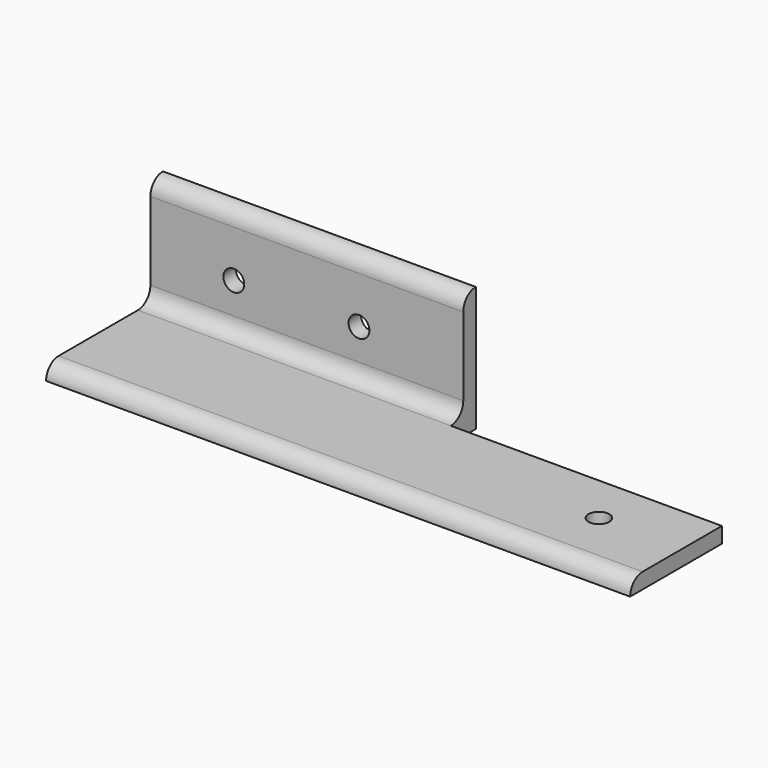
from build123d import *

# Parameters (mm, degrees)
F1_DEPTH = 177.8
F2_R     = 6.35
F3_DEPTH = 25.4
F4_W     = 165.1
F4_H     = 19.05
F5_DEPTH = 76.201
F6_R     = 6.35
F7_DEPTH = 25.4


with BuildPart() as f1:
    # F0 (on Right) → F1 (new body, symmetric)
    with BuildSketch(Plane.YZ):
        with BuildLine():
            Line((0, 0), (0, 76.2))
            ThreePointArc((0, 76.2), (-6.7351920908, 73.4101920908), (-9.525, 66.675))
            Line((-9.525, 66.675), (-9.525, 19.05))
            ThreePointArc((-9.525, 19.05), (-12.3148079092, 12.3148079092), (-19.05, 9.525))
            Line((-19.05, 9.525), (-79.375, 9.525))
            ThreePointArc((-79.375, 9.525), (-86.1101920908, 6.7351920908), (-88.9, 0))
            Line((-88.9, 0), (0, 0))
        make_face()
    extrude(amount=F1_DEPTH, both=True)

    # F2 (on face) → F3 (cut)
    with BuildSketch(Plane(origin=(0, 0, 0), x_dir=(-1, 0, 0), z_dir=(0, 1, 0))):
        with Locations((127, 38.1)):
            Circle(F2_R)
        with Locations((50.8, 38.1)):
            Circle(F2_R)
    extrude(amount=-F3_DEPTH, mode=Mode.SUBTRACT)

    # F4 (on face) → F5 (cut, through all)
    with BuildSketch(Plane(origin=(0, 0, 0), x_dir=(1, 0, 0), z_dir=(0, 0, -1))):
        with Locations((95.25, 9.525)):
            Rectangle(F4_W, F4_H)
    extrude(amount=-F5_DEPTH, mode=Mode.SUBTRACT)

    # F6 (on face) → F7 (cut)
    with BuildSketch(Plane(origin=(0, 0, 0), x_dir=(1, 0, 0), z_dir=(0, 0, -1))):
        with Locations((127, 49.2125)):
            Circle(F6_R)
    extrude(amount=-F7_DEPTH, mode=Mode.SUBTRACT)


solid = f1.part
